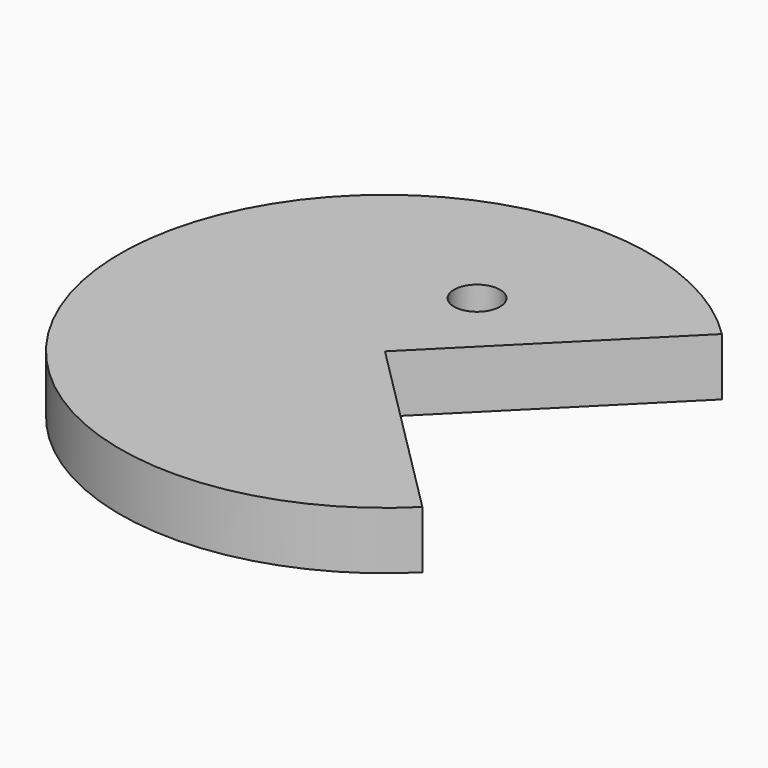
from build123d import *

# Parameters (mm, degrees)
CYLINDER001_R            = 2
CYLINDER001_DEPTH        = 10
CYLINDER_W               = 23
CYLINDER_H               = 5
CYLINDER_ANGLE           = 270
CYLINDER_PLACEMENT_ANGLE = 45


with BuildPart() as obj1:
    # Cylinder001 → Cylinder001 (new body)
    with BuildSketch(Plane(origin=(0, 10, -3), x_dir=(1, 0, 0), z_dir=(0, 0, 1))):
        Circle(CYLINDER001_R)
    extrude(amount=CYLINDER001_DEPTH)


with BuildPart() as obj2:
    # Cylinder → Cylinder (revolve)
    with BuildSketch(Plane.XZ):
        with Locations((11.5, 2.5)):
            Rectangle(CYLINDER_W, CYLINDER_H)
    revolve(axis=Axis((0, 0, 0), (0, 0, 1)), revolution_arc=CYLINDER_ANGLE)


with BuildPart() as obj2_1:
    # Cylinder placement: moved
    add(obj2.part.rotate(Axis((0, 0, 0), (0, 0, 1)), CYLINDER_PLACEMENT_ANGLE))

    # Cut: cut obj1
    add(obj1.part, mode=Mode.SUBTRACT)


solid = obj2_1.part
